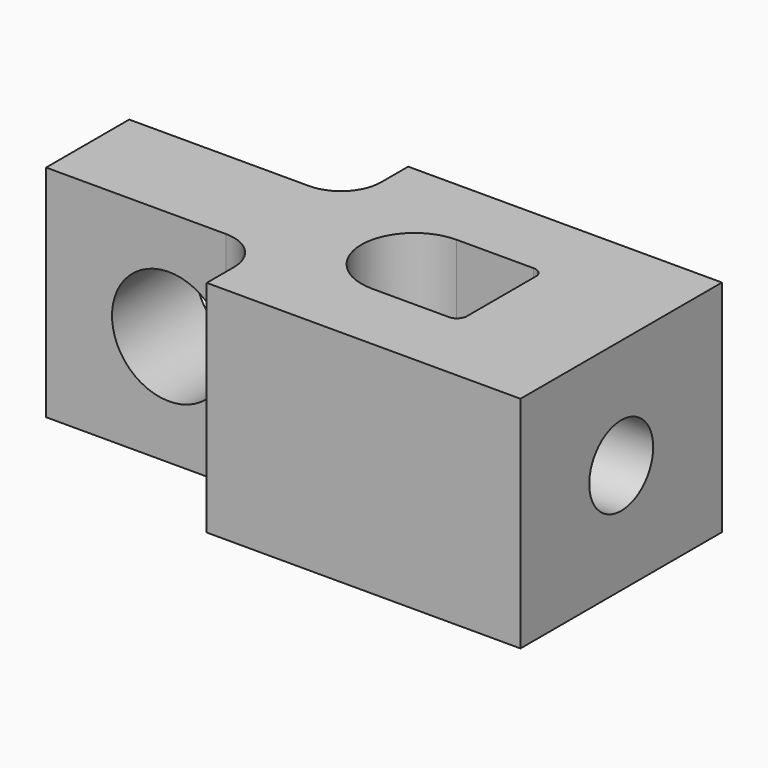
from build123d import *

# Parameters (mm, degrees)
F1_DEPTH = 11
F2_R     = 2.85
F3_DEPTH = 25
F4_W     = 3
F4_H     = 7.1
F5_DEPTH = 10
F6_R     = 2
F7_DEPTH = 3


with BuildPart() as f1:
    # F0 (on Top) → F1 (new body)
    with BuildSketch(Plane.XY):
        with BuildLine():
            Line((-15.7, 1.7), (-15.7, 0))
            Line((-15.7, 0), (0, 0))
            Line((0, 0), (0, 12.6))
            Line((0, 12.6), (-15.7, 12.6))
            Line((-15.7, 12.6), (-15.7, 10.9))
            ThreePointArc((-15.7, 10.9), (-16.285786, 9.485786), (-17.7, 8.9))
            Line((-17.7, 8.9), (-26.7, 8.9))
            Line((-26.7, 8.9), (-26.7, 3.7))
            Line((-26.7, 3.7), (-17.7, 3.7))
            ThreePointArc((-17.7, 3.7), (-16.285786, 3.114214), (-15.7, 1.7))
        make_face()
        with BuildLine():
            ThreePointArc((-6, 4.15), (-6.146447, 3.796447), (-6.5, 3.65))
            Line((-6.5, 3.65), (-10.35, 3.65))
            ThreePointArc((-10.35, 3.65), (-13, 6.3), (-10.35, 8.95))
            Line((-10.35, 8.95), (-6.5, 8.95))
            ThreePointArc((-6.5, 8.95), (-6.146447, 8.803553), (-6, 8.45))
            Line((-6, 8.45), (-6, 4.15))
        make_face(mode=Mode.SUBTRACT)
    extrude(amount=F1_DEPTH)

    # F2 (on face) → F3 (cut)
    with BuildSketch(Plane.XZ.offset(-3.7)):
        with Locations((-20.550203, 5.55)):
            Circle(F2_R)
    extrude(amount=-F3_DEPTH, mode=Mode.SUBTRACT)

    # F4 (on face) → F5 (cut)
    with BuildSketch(Plane(origin=(0, 0, 0), x_dir=(1, 0, 0), z_dir=(0, 0, -1))):
        with Locations((-4.5, -6.3)):
            Rectangle(F4_W, F4_H)
    extrude(amount=-F5_DEPTH, mode=Mode.SUBTRACT)

    # F6 (on face) → F7 (cut, through all)
    with BuildSketch(Plane.YZ):
        with Locations((6.3, 5.5)):
            Circle(F6_R)
    extrude(amount=-F7_DEPTH, mode=Mode.SUBTRACT)


solid = f1.part
